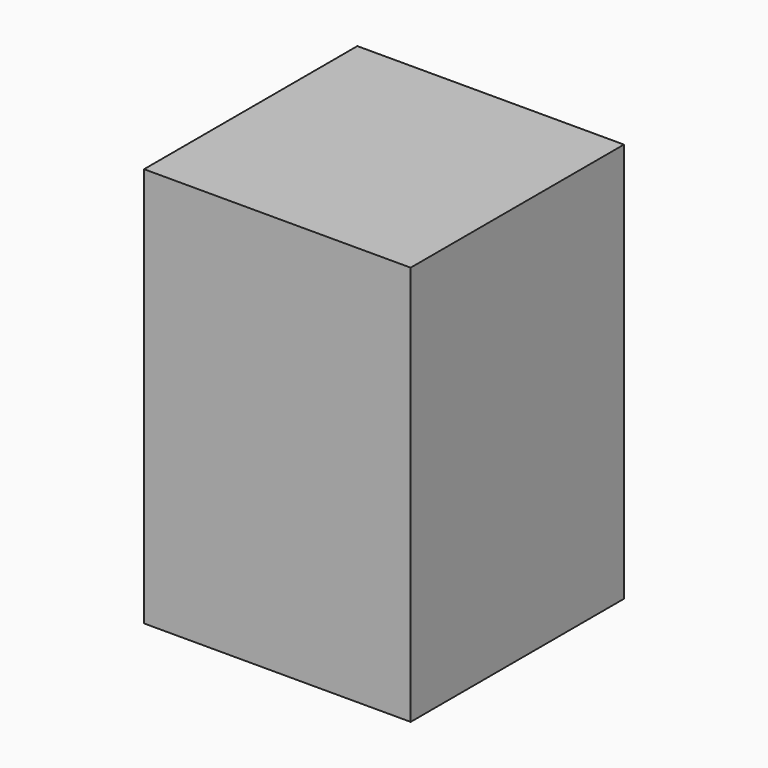
from build123d import *

# Parameters (mm, degrees)
F0_W     = 203.2
F0_H     = 304.8
F1_DEPTH = 101.6


with BuildPart() as f1:
    # F0 (on Front) → F1 (new body, symmetric)
    with BuildSketch(Plane.XZ):
        Rectangle(F0_W, F0_H)
    extrude(amount=F1_DEPTH, both=True)


with BuildPart() as f3:
    # F2 (on Front) → F3 (revolve)
    with BuildSketch(Plane.XZ):
        with BuildLine():
            Line((0, -50.8), (0, 50.8))
            ThreePointArc((0, 50.8), (-50.8, 0), (0, -50.8))
        make_face()
    revolve(axis=Axis((0, 0, 0), (0, 0, -1)))


solid = Compound([f1.part, f3.part])
